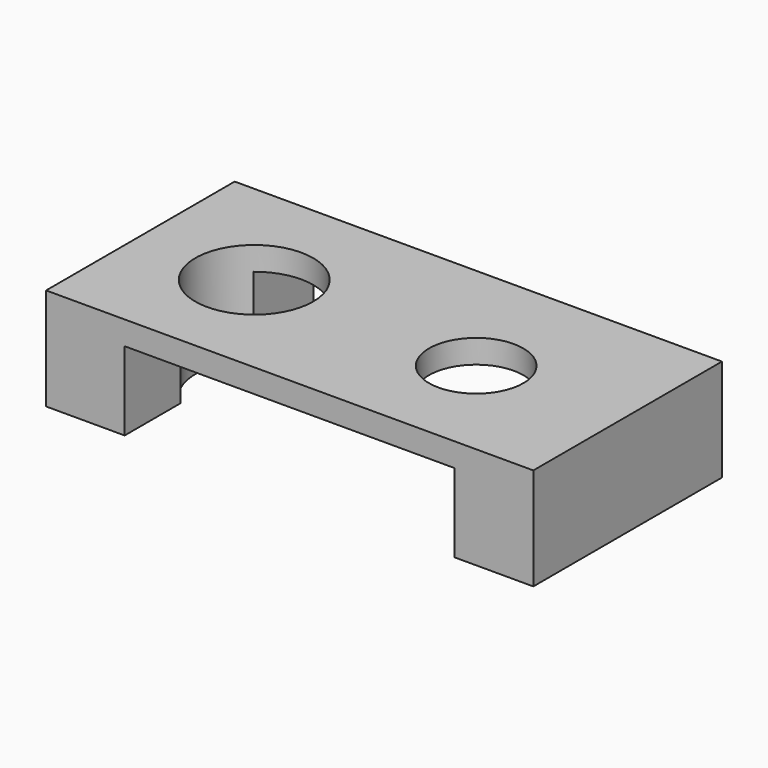
from build123d import *

# Parameters (mm, degrees)
F2_DEPTH = 30
F3_DEPTH = 30
F4_R     = 7.5
F4_R_2   = 6
F5_DEPTH = 25


with BuildPart() as f2:
    # F0 (on Front) → F2 (new body)
    with BuildSketch(Plane.XZ):
        Polygon((0, 0), (0, -13), (10, -13), (10, -3), (52, -3), (52, -13), (62, -13), (62, 0), align=None)
    extrude(amount=F2_DEPTH)

    # F1 (on face) → F3 (join)
    with BuildSketch(Plane.XZ):
        Polygon((62, 0), (0, 0), (0, -13), (10, -13), (10, -3), (52, -3), (52, -13), (62, -13), align=None)
    extrude(amount=F3_DEPTH)

    # F4 (on face) → F5 (cut)
    with BuildSketch(Plane.XY):
        with Locations((14.728305, -15.297354)):
            Circle(F4_R)
        with Locations((43.501947, -15.963921)):
            Circle(F4_R_2)
    extrude(amount=-F5_DEPTH, mode=Mode.SUBTRACT)


solid = f2.part
